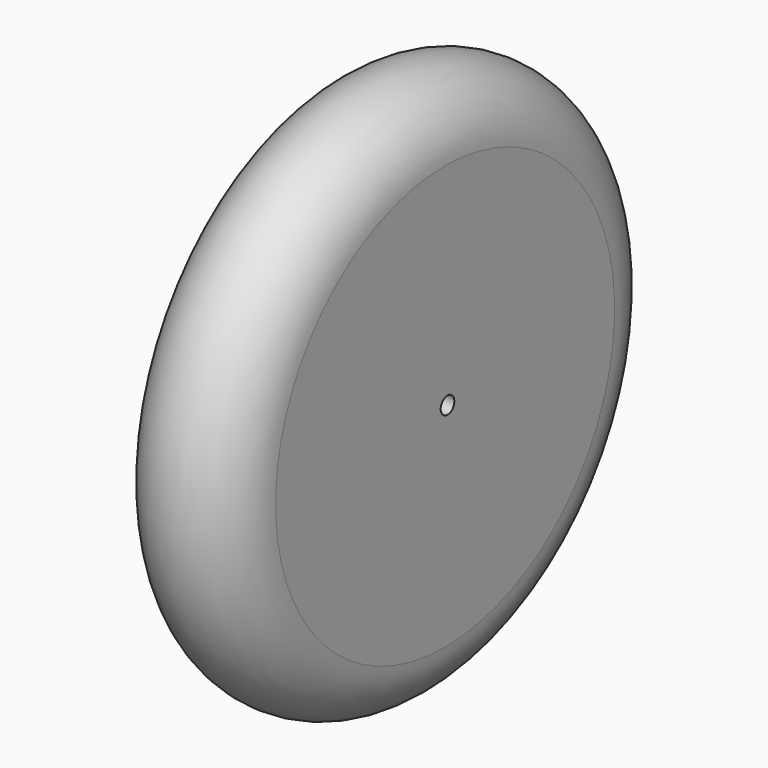
from build123d import *

# Parameters (mm, degrees)
F2_R     = 3.175
F3_DEPTH = 50.8


with BuildPart() as f1:
    # F0 (on Front) → F1 (revolve)
    with BuildSketch(Plane.XZ):
        with BuildLine():
            ThreePointArc((45.466, 78.867), (22.733, 101.6), (0, 78.867))
            Line((0, 78.867), (0, 0))
            Line((0, 0), (45.466, 0))
            Line((45.466, 0), (45.466, 78.867))
        make_face()
    revolve(axis=Axis((22.733, 0, 0), (1, 0, 0)))

    # F2 (on face) → F3 (cut)
    with BuildSketch(Plane.YZ.offset(45.466)):
        with Locations((1.122507, 0)):
            Circle(F2_R)
    extrude(amount=-F3_DEPTH, mode=Mode.SUBTRACT)


solid = f1.part
